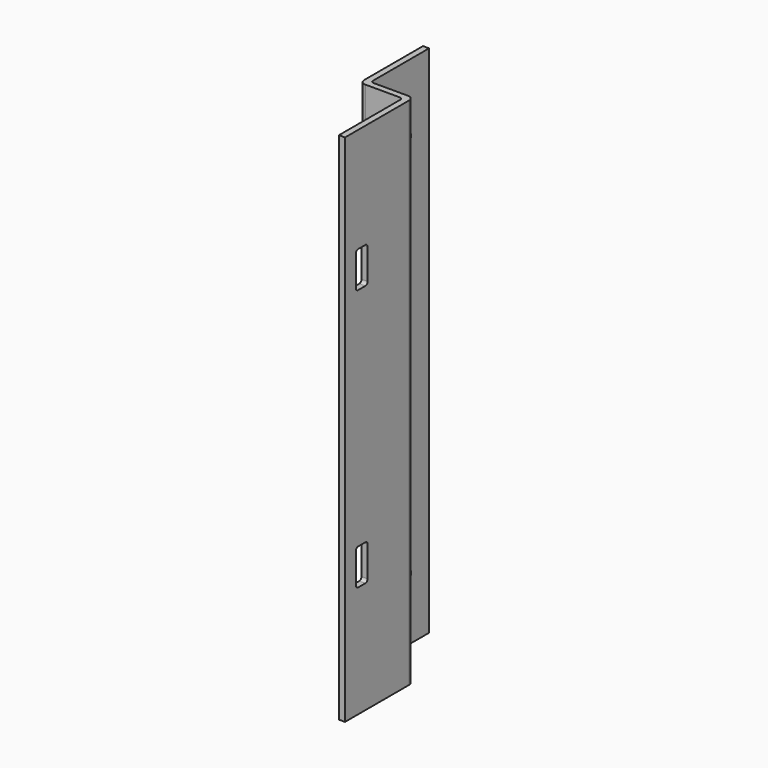
from build123d import *

# Parameters (mm, degrees)
F1_DEPTH = 228
F2_R     = 3
F3_DEPTH = 2.7
F5_DEPTH = 2.7


with BuildPart() as f1:
    # F0 (on Top) → F1 (new body)
    with BuildSketch(Plane.XY):
        with BuildLine():
            Line((2.7, 0), (0, 0))
            Line((0, 0), (0, -32.5))
            ThreePointArc((0, -32.5), (0.732233, -34.267767), (2.5, -35))
            Line((2.5, -35), (17.75, -35))
            ThreePointArc((17.75, -35), (18.633883, -35.366117), (19, -36.25))
            Line((19, -36.25), (19, -70.3))
            Line((19, -70.3), (21.7, -70.3))
            Line((21.7, -70.3), (21.7, -34.8))
            ThreePointArc((21.7, -34.8), (20.967767, -33.032233), (19.2, -32.3))
            Line((19.2, -32.3), (3.95, -32.3))
            ThreePointArc((3.95, -32.3), (3.066117, -31.933883), (2.7, -31.05))
            Line((2.7, -31.05), (2.7, 0))
        make_face()
    extrude(amount=F1_DEPTH)

    # F2 (on face) → F3 (cut)
    with BuildSketch(Plane(origin=(0, 0, 0), x_dir=(0, -1, 0), z_dir=(-1, 0, 0))):
        with Locations((13, 198)):
            Circle(F2_R)
        with Locations((13, 27.5)):
            Circle(F2_R)
    extrude(amount=-F3_DEPTH, mode=Mode.SUBTRACT)

    # F4 (on face) → F5 (cut)
    with BuildSketch(Plane.YZ.offset(21.7)):
        with BuildLine():
            ThreePointArc((-57.8, 64.25), (-58.166117, 65.133883), (-59.05, 65.5))
            Line((-59.05, 65.5), (-63.05, 65.5))
            ThreePointArc((-63.05, 65.5), (-63.933883, 65.133883), (-64.3, 64.25))
            Line((-64.3, 64.25), (-64.3, 50.75))
            ThreePointArc((-64.3, 50.75), (-63.933883, 49.866117), (-63.05, 49.5))
            Line((-63.05, 49.5), (-59.05, 49.5))
            ThreePointArc((-59.05, 49.5), (-58.166117, 49.866117), (-57.8, 50.75))
            Line((-57.8, 50.75), (-57.8, 64.25))
        make_face()
        with BuildLine():
            ThreePointArc((-57.8, 180.25), (-58.166117, 181.133883), (-59.05, 181.5))
            Line((-59.05, 181.5), (-63.05, 181.5))
            ThreePointArc((-63.05, 181.5), (-63.933883, 181.133883), (-64.3, 180.25))
            Line((-64.3, 180.25), (-64.3, 166.75))
            ThreePointArc((-64.3, 166.75), (-63.933883, 165.866117), (-63.05, 165.5))
            Line((-63.05, 165.5), (-59.05, 165.5))
            ThreePointArc((-59.05, 165.5), (-58.166117, 165.866117), (-57.8, 166.75))
            Line((-57.8, 166.75), (-57.8, 180.25))
        make_face()
    extrude(amount=-F5_DEPTH, mode=Mode.SUBTRACT)


solid = f1.part
